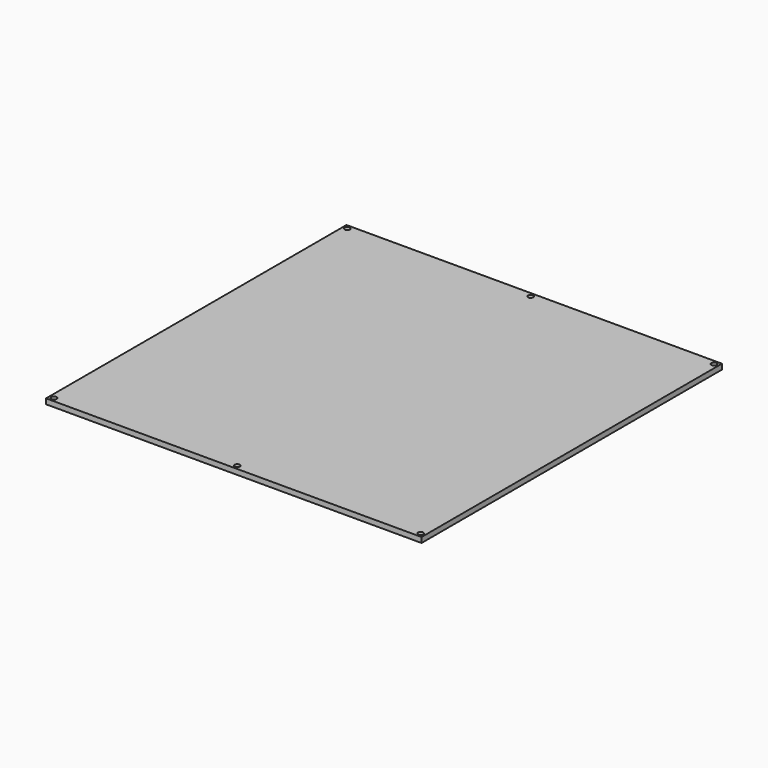
from build123d import *

# Parameters (mm, degrees)
F0_W     = 214
F0_H     = 214
F0_R     = 1.5
F1_DEPTH = 3


with BuildPart() as f1:
    # F0 (on Top) → F1 (new body)
    with BuildSketch(Plane.XY):
        Rectangle(F0_W, F0_H)
        with Locations((-104.5, -104.5)):
            Circle(F0_R, mode=Mode.SUBTRACT)
        with Locations((0, -104.5)):
            Circle(F0_R, mode=Mode.SUBTRACT)
        with Locations((104.5, -104.5)):
            Circle(F0_R, mode=Mode.SUBTRACT)
        with Locations((-104.5, 104.5)):
            Circle(F0_R, mode=Mode.SUBTRACT)
        with Locations((0, 104.5)):
            Circle(F0_R, mode=Mode.SUBTRACT)
        with Locations((104.5, 104.5)):
            Circle(F0_R, mode=Mode.SUBTRACT)
    extrude(amount=F1_DEPTH)


solid = f1.part
